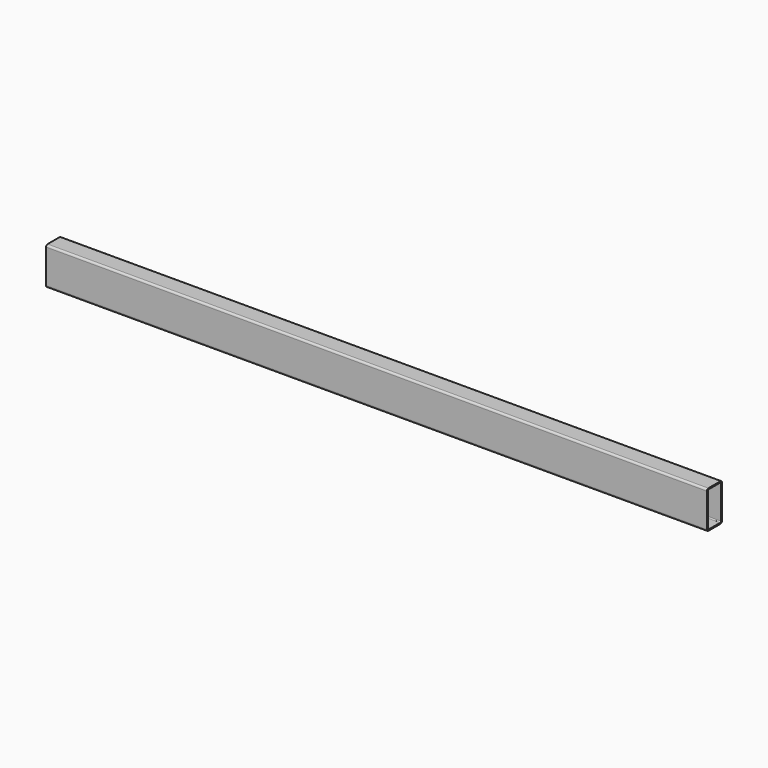
from build123d import *

# Parameters (mm, degrees)
F0_W     = 50.8
F0_H     = 101.6
F0_W_2   = 44.45
F0_H_2   = 95.25
F1_DEPTH = 1786.7376
F2_R     = 2.54
F3_R     = 5.08


with BuildPart() as f1:
    # F0 (on Right) → F1 (new body)
    with BuildSketch(Plane.YZ):
        Rectangle(F0_W, F0_H)
        Rectangle(F0_W_2, F0_H_2, mode=Mode.SUBTRACT)
    extrude(amount=F1_DEPTH)

    # F2
    f2_edges = [f1.edges().sort_by_distance(p)[0] for p in [
        (893.3688, 22.225, 47.625),
        (893.3688, -22.225, 47.625),
        (893.3688, -22.225, -47.625),
        (893.3688, 22.225, -47.625),
    ]]
    fillet(f2_edges, radius=F2_R)

    # F3
    f3_edges = [f1.edges().sort_by_distance(p)[0] for p in [
        (893.3688, -25.4, -50.8),
        (893.3688, -25.4, 50.8),
        (893.3688, 25.4, 50.8),
        (893.3688, 25.4, -50.8),
    ]]
    fillet(f3_edges, radius=F3_R)


solid = f1.part
